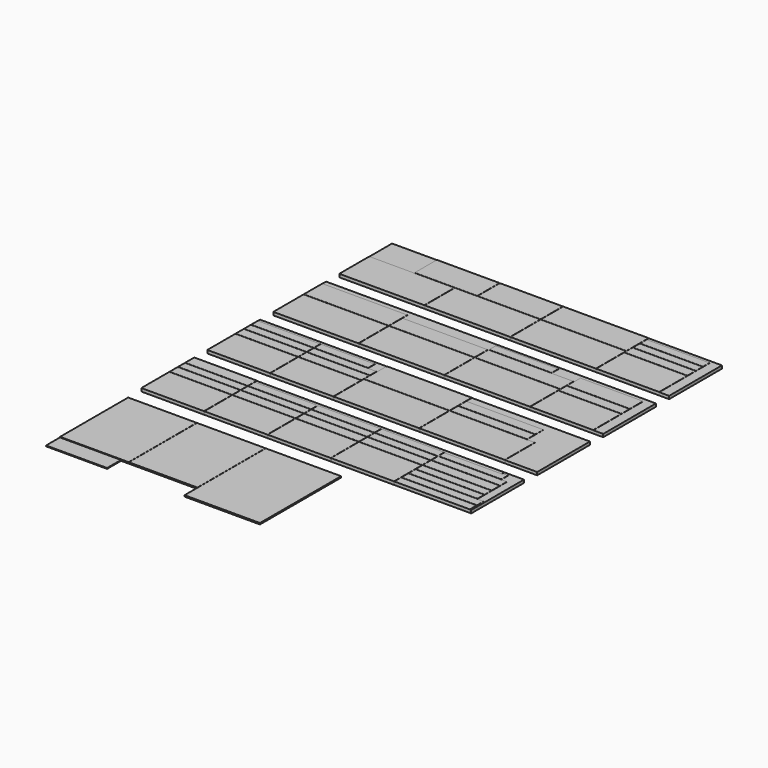
from build123d import *

# Parameters (mm, degrees)
BOX_W        = 2000
BOX_H        = 400
BOX_DEPTH    = 18
BOX001_W     = 380
BOX001_H     = 69
BOX001_DEPTH = 18
BOX002_W     = 380
BOX002_H     = 50
BOX002_DEPTH = 18
BOX003_W     = 380
BOX003_H     = 60
BOX003_DEPTH = 18
BOX004_W     = 380
BOX004_H     = 50
BOX004_DEPTH = 18
BOX005_W     = 380
BOX005_H     = 210
BOX005_DEPTH = 18
BOX007_W     = 380
BOX007_H     = 50
BOX007_DEPTH = 18
BOX008_W     = 380
BOX008_H     = 210
BOX008_DEPTH = 18
BOX006_W     = 380
BOX006_H     = 60
BOX006_DEPTH = 18
BOX009_W     = 380
BOX009_H     = 100
BOX009_DEPTH = 18
BOX010_W     = 380
BOX010_H     = 50
BOX010_DEPTH = 18
BOX014_W     = 380
BOX014_H     = 50
BOX014_DEPTH = 18
BOX015_W     = 380
BOX015_H     = 210
BOX015_DEPTH = 18
BOX016_W     = 380
BOX016_H     = 60
BOX016_DEPTH = 18
BOX012_W     = 380
BOX012_H     = 50
BOX012_DEPTH = 18
BOX013_W     = 380
BOX013_H     = 210
BOX013_DEPTH = 18
BOX017_W     = 380
BOX017_H     = 50
BOX017_DEPTH = 18
BOX011_W     = 380
BOX011_H     = 60
BOX011_DEPTH = 18
BOX021_W     = 466
BOX021_H     = 60
BOX021_DEPTH = 18
BOX022_W     = 2000
BOX022_H     = 400
BOX022_DEPTH = 18
BOX023_W     = 466
BOX023_H     = 60
BOX023_DEPTH = 18
BOX024_W     = 456
BOX024_H     = 50
BOX024_DEPTH = 18
BOX025_W     = 456
BOX025_H     = 50
BOX025_DEPTH = 18
BOX026_W     = 416
BOX026_H     = 50
BOX026_DEPTH = 18
BOX027_W     = 416
BOX027_H     = 50
BOX027_DEPTH = 18
BOX028_W     = 416
BOX028_H     = 50
BOX028_DEPTH = 18
BOX029_W     = 416
BOX029_H     = 60
BOX029_DEPTH = 18
BOX030_W     = 346
BOX030_H     = 18
BOX030_DEPTH = 18
BOX035_W     = 380
BOX035_H     = 210
BOX035_DEPTH = 18
BOX032_W     = 380
BOX032_H     = 210
BOX032_DEPTH = 18
BOX031_W     = 380
BOX031_H     = 50
BOX031_DEPTH = 18
BOX034_W     = 380
BOX034_H     = 50
BOX034_DEPTH = 18
BOX033_W     = 380
BOX033_H     = 60
BOX033_DEPTH = 18
BOX036_W     = 380
BOX036_H     = 60
BOX036_DEPTH = 18
BOX037_W     = 380
BOX037_H     = 210
BOX037_DEPTH = 18
BOX038_W     = 380
BOX038_H     = 210
BOX038_DEPTH = 18
BOX039_W     = 380
BOX039_H     = 50
BOX039_DEPTH = 18
BOX040_W     = 380
BOX040_H     = 50
BOX040_DEPTH = 18
BOX041_W     = 380
BOX041_H     = 60
BOX041_DEPTH = 18
BOX042_W     = 380
BOX042_H     = 60
BOX042_DEPTH = 18
BOX043_W     = 2000
BOX043_H     = 400
BOX043_DEPTH = 18
BOX044_W     = 516
BOX044_H     = 227
BOX044_DEPTH = 18
BOX045_W     = 516
BOX045_H     = 227
BOX045_DEPTH = 18
BOX046_W     = 516
BOX046_H     = 227
BOX046_DEPTH = 18
BOX047_W     = 516
BOX047_H     = 227
BOX047_DEPTH = 18
BOX048_W     = 2000
BOX048_H     = 400
BOX048_DEPTH = 18
BOX049_W     = 516
BOX049_H     = 227
BOX049_DEPTH = 18
BOX050_W     = 516
BOX050_H     = 227
BOX050_DEPTH = 18
BOX051_W     = 380
BOX051_H     = 50
BOX051_DEPTH = 18
BOX052_W     = 516
BOX052_H     = 140
BOX052_DEPTH = 18
BOX053_W     = 516
BOX053_H     = 100
BOX053_DEPTH = 18
BOX054_W     = 516
BOX054_H     = 100
BOX054_DEPTH = 18
BOX055_W     = 326
BOX055_H     = 50
BOX055_DEPTH = 18
BOX056_W     = 516
BOX056_H     = 227
BOX056_DEPTH = 18
BOX060_W     = 516
BOX060_H     = 169
BOX060_DEPTH = 18
BOX061_W     = 516
BOX061_H     = 169
BOX061_DEPTH = 18
BOX062_W     = 380
BOX062_H     = 169
BOX062_DEPTH = 18
BOX063_W     = 380
BOX063_H     = 169
BOX063_DEPTH = 18
BOX064_W     = 416
BOX064_H     = 516
BOX064_DEPTH = 8
BOX065_W     = 457
BOX065_H     = 615
BOX065_DEPTH = 8
BOX066_W     = 416
BOX066_H     = 516
BOX066_DEPTH = 8
BOX067_W     = 370
BOX067_H     = 105
BOX067_DEPTH = 5
BOX068_W     = 516
BOX068_H     = 227
BOX068_DEPTH = 18
BOX069_W     = 380
BOX069_H     = 50
BOX069_DEPTH = 18
BOX070_W     = 380
BOX070_H     = 50
BOX070_DEPTH = 18


with BuildPart() as brett:
    # Box → Box (new body)
    with BuildSketch(Plane.XY.offset(-1)):
        with Locations((1000, 200)):
            Rectangle(BOX_W, BOX_H)
    extrude(amount=BOX_DEPTH)


with BuildPart() as obj1:
    # Box001 → Box001 (new body)
    with BuildSketch(Plane(origin=(0, 332, 0), x_dir=(1, 0, 0), z_dir=(0, 0, 1))):
        with Locations((190, 34.5)):
            Rectangle(BOX001_W, BOX001_H)
    extrude(amount=BOX001_DEPTH)


with BuildPart() as obj2:
    # Box002 → Box002 (new body)
    with BuildSketch(Plane(origin=(384, 332, 0), x_dir=(1, 0, 0), z_dir=(0, 0, 1))):
        with Locations((190, 25)):
            Rectangle(BOX002_W, BOX002_H)
    extrude(amount=BOX002_DEPTH)


with BuildPart() as obj3:
    # Box003 → Box003 (new body)
    with BuildSketch(Plane(origin=(1152, 214, 0), x_dir=(1, 0, 0), z_dir=(0, 0, 1))):
        with Locations((190, 30)):
            Rectangle(BOX003_W, BOX003_H)
    extrude(amount=BOX003_DEPTH)


with BuildPart() as obj4:
    # Box004 → Box004 (new body)
    with BuildSketch(Plane(origin=(1152, 278, 0), x_dir=(1, 0, 0), z_dir=(0, 0, 1))):
        with Locations((190, 25)):
            Rectangle(BOX004_W, BOX004_H)
    extrude(amount=BOX004_DEPTH)


with BuildPart() as obj5:
    # Box005 → Box005 (new body)
    with BuildSketch(Plane(origin=(1152, 0, 0), x_dir=(1, 0, 0), z_dir=(0, 0, 1))):
        with Locations((190, 105)):
            Rectangle(BOX005_W, BOX005_H)
    extrude(amount=BOX005_DEPTH)


with BuildPart() as obj6:
    # Box007 → Box007 (new body)
    with BuildSketch(Plane(origin=(768, 278, 0), x_dir=(1, 0, 0), z_dir=(0, 0, 1))):
        with Locations((190, 25)):
            Rectangle(BOX007_W, BOX007_H)
    extrude(amount=BOX007_DEPTH)


with BuildPart() as obj7:
    # Box008 → Box008 (new body)
    with BuildSketch(Plane(origin=(768, 0, 0), x_dir=(1, 0, 0), z_dir=(0, 0, 1))):
        with Locations((190, 105)):
            Rectangle(BOX008_W, BOX008_H)
    extrude(amount=BOX008_DEPTH)


with BuildPart() as obj8:
    # Box006 → Box006 (new body)
    with BuildSketch(Plane(origin=(768, 214, 0), x_dir=(1, 0, 0), z_dir=(0, 0, 1))):
        with Locations((190, 30)):
            Rectangle(BOX006_W, BOX006_H)
    extrude(amount=BOX006_DEPTH)


with BuildPart() as boden_back_with_hole:
    # Box009 → Box009 (new body)
    with BuildSketch(Plane(origin=(1560, 1278, 0), x_dir=(1, 0, 0), z_dir=(0, 0, 1))):
        with Locations((190, 50)):
            Rectangle(BOX009_W, BOX009_H)
    extrude(amount=BOX009_DEPTH)


with BuildPart() as obj9:
    # Box010 → Box010 (new body)
    with BuildSketch(Plane(origin=(1152, 332, 0), x_dir=(1, 0, 0), z_dir=(0, 0, 1))):
        with Locations((190, 25)):
            Rectangle(BOX010_W, BOX010_H)
    extrude(amount=BOX010_DEPTH)


with BuildPart() as obj10:
    # Box014 → Box014 (new body)
    with BuildSketch(Plane(origin=(0, 278, 0), x_dir=(1, 0, 0), z_dir=(0, 0, 1))):
        with Locations((190, 25)):
            Rectangle(BOX014_W, BOX014_H)
    extrude(amount=BOX014_DEPTH)


with BuildPart() as obj11:
    # Box015 → Box015 (new body)
    with BuildSketch(Plane(origin=(384, 0, 0), x_dir=(1, 0, 0), z_dir=(0, 0, 1))):
        with Locations((190, 105)):
            Rectangle(BOX015_W, BOX015_H)
    extrude(amount=BOX015_DEPTH)


with BuildPart() as obj12:
    # Box016 → Box016 (new body)
    with BuildSketch(Plane(origin=(0, 214, 0), x_dir=(1, 0, 0), z_dir=(0, 0, 1))):
        with Locations((190, 30)):
            Rectangle(BOX016_W, BOX016_H)
    extrude(amount=BOX016_DEPTH)


with BuildPart() as box012:
    # Box012 → Box012 (new body)
    with BuildSketch(Plane(origin=(384, 278, 0), x_dir=(1, 0, 0), z_dir=(0, 0, 1))):
        with Locations((190, 25)):
            Rectangle(BOX012_W, BOX012_H)
    extrude(amount=BOX012_DEPTH)


with BuildPart() as obj13:
    # Box013 → Box013 (new body)
    with BuildSketch(Plane.XY):
        with Locations((190, 105)):
            Rectangle(BOX013_W, BOX013_H)
    extrude(amount=BOX013_DEPTH)


with BuildPart() as obj14:
    # Box017 → Box017 (new body)
    with BuildSketch(Plane(origin=(1536, 334, 0), x_dir=(1, 0, 0), z_dir=(0, 0, 1))):
        with Locations((190, 25)):
            Rectangle(BOX017_W, BOX017_H)
    extrude(amount=BOX017_DEPTH)


with BuildPart() as obj15:
    # Box011 → Box011 (new body)
    with BuildSketch(Plane(origin=(384, 214, 0), x_dir=(1, 0, 0), z_dir=(0, 0, 1))):
        with Locations((190, 30)):
            Rectangle(BOX011_W, BOX011_H)
    extrude(amount=BOX011_DEPTH)


with BuildPart() as boden_seite_rechts_unten:
    # Box021 → Box021 (new body)
    with BuildSketch(Plane(origin=(1288, 731, 0), x_dir=(1, 0, 0), z_dir=(0, 0, 1))):
        with Locations((233, 30)):
            Rectangle(BOX021_W, BOX021_H)
    extrude(amount=BOX021_DEPTH)


with BuildPart() as brett2:
    # Box022 → Box022 (new body)
    with BuildSketch(Plane(origin=(0, 500, -1), x_dir=(1, 0, 0), z_dir=(0, 0, 1))):
        with Locations((1000, 200)):
            Rectangle(BOX022_W, BOX022_H)
    extrude(amount=BOX022_DEPTH)


with BuildPart() as boden_seite_links_unten:
    # Box023 → Box023 (new body)
    with BuildSketch(Plane(origin=(1288, 795, 0), x_dir=(1, 0, 0), z_dir=(0, 0, 1))):
        with Locations((233, 30)):
            Rectangle(BOX023_W, BOX023_H)
    extrude(amount=BOX023_DEPTH)


with BuildPart() as boden_seite_rechts_oben:
    # Box024 → Box024 (new body)
    with BuildSketch(Plane(origin=(1536, 0, 0), x_dir=(1, 0, 0), z_dir=(0, 0, 1))):
        with Locations((228, 25)):
            Rectangle(BOX024_W, BOX024_H)
    extrude(amount=BOX024_DEPTH)


with BuildPart() as boden_seite_links_oben:
    # Box025 → Box025 (new body)
    with BuildSketch(Plane(origin=(1536, 54, 0), x_dir=(1, 0, 0), z_dir=(0, 0, 1))):
        with Locations((228, 25)):
            Rectangle(BOX025_W, BOX025_H)
    extrude(amount=BOX025_DEPTH)


with BuildPart() as obj16:
    # Box026 → Box026 (new body)
    with BuildSketch(Plane(origin=(1536, 108, 0), x_dir=(1, 0, 0), z_dir=(0, 0, 1))):
        with Locations((208, 25)):
            Rectangle(BOX026_W, BOX026_H)
    extrude(amount=BOX026_DEPTH)


with BuildPart() as obj17:
    # Box027 → Box027 (new body)
    with BuildSketch(Plane(origin=(1536, 280, 0), x_dir=(1, 0, 0), z_dir=(0, 0, 1))):
        with Locations((208, 25)):
            Rectangle(BOX027_W, BOX027_H)
    extrude(amount=BOX027_DEPTH)


with BuildPart() as obj18:
    # Box028 → Box028 (new body)
    with BuildSketch(Plane(origin=(1536, 162, 0), x_dir=(1, 0, 0), z_dir=(0, 0, 1))):
        with Locations((208, 25)):
            Rectangle(BOX028_W, BOX028_H)
    extrude(amount=BOX028_DEPTH)


with BuildPart() as obj19:
    # Box029 → Box029 (new body)
    with BuildSketch(Plane(origin=(1536, 216, 0), x_dir=(1, 0, 0), z_dir=(0, 0, 1))):
        with Locations((208, 30)):
            Rectangle(BOX029_W, BOX029_H)
    extrude(amount=BOX029_DEPTH)


with BuildPart() as obj20:
    # Box030 → Box030 (new body)
    with BuildSketch(Plane(origin=(1536, 378, 0), x_dir=(1, 0, 0), z_dir=(0, 0, 1))):
        with Locations((173, 9)):
            Rectangle(BOX030_W, BOX030_H)
    extrude(amount=BOX030_DEPTH)


with BuildPart() as obj21:
    # Box035 → Box035 (new body)
    with BuildSketch(Plane(origin=(0, 500, 0), x_dir=(1, 0, 0), z_dir=(0, 0, 1))):
        with Locations((190, 105)):
            Rectangle(BOX035_W, BOX035_H)
    extrude(amount=BOX035_DEPTH)


with BuildPart() as obj22:
    # Box032 → Box032 (new body)
    with BuildSketch(Plane(origin=(384, 500, 0), x_dir=(1, 0, 0), z_dir=(0, 0, 1))):
        with Locations((190, 105)):
            Rectangle(BOX032_W, BOX032_H)
    extrude(amount=BOX032_DEPTH)


with BuildPart() as obj23:
    # Box031 → Box031 (new body)
    with BuildSketch(Plane(origin=(0, 778, 0), x_dir=(1, 0, 0), z_dir=(0, 0, 1))):
        with Locations((190, 25)):
            Rectangle(BOX031_W, BOX031_H)
    extrude(amount=BOX031_DEPTH)


with BuildPart() as box034:
    # Box034 → Box034 (new body)
    with BuildSketch(Plane(origin=(384, 778, 0), x_dir=(1, 0, 0), z_dir=(0, 0, 1))):
        with Locations((190, 25)):
            Rectangle(BOX034_W, BOX034_H)
    extrude(amount=BOX034_DEPTH)


with BuildPart() as obj24:
    # Box033 → Box033 (new body)
    with BuildSketch(Plane(origin=(0, 714, 0), x_dir=(1, 0, 0), z_dir=(0, 0, 1))):
        with Locations((190, 30)):
            Rectangle(BOX033_W, BOX033_H)
    extrude(amount=BOX033_DEPTH)


with BuildPart() as obj25:
    # Box036 → Box036 (new body)
    with BuildSketch(Plane(origin=(384, 714, 0), x_dir=(1, 0, 0), z_dir=(0, 0, 1))):
        with Locations((190, 30)):
            Rectangle(BOX036_W, BOX036_H)
    extrude(amount=BOX036_DEPTH)


with BuildPart() as obj26:
    # Box037 → Box037 (new body)
    with BuildSketch(Plane(origin=(1560, 1500, 0), x_dir=(1, 0, 0), z_dir=(0, 0, 1))):
        with Locations((190, 105)):
            Rectangle(BOX037_W, BOX037_H)
    extrude(amount=BOX037_DEPTH)


with BuildPart() as obj27:
    # Box038 → Box038 (new body)
    with BuildSketch(Plane(origin=(1560, 1000, 0), x_dir=(1, 0, 0), z_dir=(0, 0, 1))):
        with Locations((190, 105)):
            Rectangle(BOX038_W, BOX038_H)
    extrude(amount=BOX038_DEPTH)


with BuildPart() as obj28:
    # Box039 → Box039 (new body)
    with BuildSketch(Plane(origin=(1560, 1778, 0), x_dir=(1, 0, 0), z_dir=(0, 0, 1))):
        with Locations((190, 25)):
            Rectangle(BOX039_W, BOX039_H)
    extrude(amount=BOX039_DEPTH)


with BuildPart() as box040:
    # Box040 → Box040 (new body)
    with BuildSketch(Plane(origin=(768, 332, 0), x_dir=(1, 0, 0), z_dir=(0, 0, 1))):
        with Locations((190, 25)):
            Rectangle(BOX040_W, BOX040_H)
    extrude(amount=BOX040_DEPTH)


with BuildPart() as obj29:
    # Box041 → Box041 (new body)
    with BuildSketch(Plane(origin=(1560, 1714, 0), x_dir=(1, 0, 0), z_dir=(0, 0, 1))):
        with Locations((190, 30)):
            Rectangle(BOX041_W, BOX041_H)
    extrude(amount=BOX041_DEPTH)


with BuildPart() as obj30:
    # Box042 → Box042 (new body)
    with BuildSketch(Plane(origin=(1560, 1214, 0), x_dir=(1, 0, 0), z_dir=(0, 0, 1))):
        with Locations((190, 30)):
            Rectangle(BOX042_W, BOX042_H)
    extrude(amount=BOX042_DEPTH)


with BuildPart() as box043:
    # Box043 → Box043 (new body)
    with BuildSketch(Plane(origin=(0, 1000, -1), x_dir=(1, 0, 0), z_dir=(0, 0, 1))):
        with Locations((1000, 200)):
            Rectangle(BOX043_W, BOX043_H)
    extrude(amount=BOX043_DEPTH)


with BuildPart() as obj31:
    # Box044 → Box044 (new body)
    with BuildSketch(Plane(origin=(0, 1000, 0), x_dir=(1, 0, 0), z_dir=(0, 0, 1))):
        with Locations((258, 113.5)):
            Rectangle(BOX044_W, BOX044_H)
    extrude(amount=BOX044_DEPTH)


with BuildPart() as obj32:
    # Box045 → Box045 (new body)
    with BuildSketch(Plane(origin=(520, 1000, 0), x_dir=(1, 0, 0), z_dir=(0, 0, 1))):
        with Locations((258, 113.5)):
            Rectangle(BOX045_W, BOX045_H)
    extrude(amount=BOX045_DEPTH)


with BuildPart() as obj33:
    # Box046 → Box046 (new body)
    with BuildSketch(Plane(origin=(0, 1500, 0), x_dir=(1, 0, 0), z_dir=(0, 0, 1))):
        with Locations((258, 113.5)):
            Rectangle(BOX046_W, BOX046_H)
    extrude(amount=BOX046_DEPTH)


with BuildPart() as obj34:
    # Box047 → Box047 (new body)
    with BuildSketch(Plane(origin=(1040, 1000, 0), x_dir=(1, 0, 0), z_dir=(0, 0, 1))):
        with Locations((258, 113.5)):
            Rectangle(BOX047_W, BOX047_H)
    extrude(amount=BOX047_DEPTH)


with BuildPart() as box048:
    # Box048 → Box048 (new body)
    with BuildSketch(Plane(origin=(0, 1500, -1), x_dir=(1, 0, 0), z_dir=(0, 0, 1))):
        with Locations((1000, 200)):
            Rectangle(BOX048_W, BOX048_H)
    extrude(amount=BOX048_DEPTH)


with BuildPart() as obj35:
    # Box049 → Box049 (new body)
    with BuildSketch(Plane(origin=(1040, 1500, 0), x_dir=(1, 0, 0), z_dir=(0, 0, 1))):
        with Locations((258, 113.5)):
            Rectangle(BOX049_W, BOX049_H)
    extrude(amount=BOX049_DEPTH)


with BuildPart() as obj36:
    # Box050 → Box050 (new body)
    with BuildSketch(Plane(origin=(520, 1500, 0), x_dir=(1, 0, 0), z_dir=(0, 0, 1))):
        with Locations((258, 113.5)):
            Rectangle(BOX050_W, BOX050_H)
    extrude(amount=BOX050_DEPTH)


with BuildPart() as obj37:
    # Box051 → Box051 (new body)
    with BuildSketch(Plane(origin=(0, 832, 0), x_dir=(1, 0, 0), z_dir=(0, 0, 1))):
        with Locations((190, 25)):
            Rectangle(BOX051_W, BOX051_H)
    extrude(amount=BOX051_DEPTH)


with BuildPart() as obj38:
    # Box052 → Box052 (new body)
    with BuildSketch(Plane(origin=(0, 1231, 0), x_dir=(1, 0, 0), z_dir=(0, 0, 1))):
        with Locations((258, 70)):
            Rectangle(BOX052_W, BOX052_H)
    extrude(amount=BOX052_DEPTH)


with BuildPart() as boden_seite_links:
    # Box053 → Box053 (new body)
    with BuildSketch(Plane(origin=(520, 1231, 0), x_dir=(1, 0, 0), z_dir=(0, 0, 1))):
        with Locations((258, 50)):
            Rectangle(BOX053_W, BOX053_H)
    extrude(amount=BOX053_DEPTH)


with BuildPart() as boden_seite_rechts:
    # Box054 → Box054 (new body)
    with BuildSketch(Plane(origin=(1040, 1231, 0), x_dir=(1, 0, 0), z_dir=(0, 0, 1))):
        with Locations((258, 50)):
            Rectangle(BOX054_W, BOX054_H)
    extrude(amount=BOX054_DEPTH)


with BuildPart() as obj39:
    # Box055 → Box055 (new body)
    with BuildSketch(Plane(origin=(384, 832, 0), x_dir=(1, 0, 0), z_dir=(0, 0, 1))):
        with Locations((163, 25)):
            Rectangle(BOX055_W, BOX055_H)
    extrude(amount=BOX055_DEPTH)


with BuildPart() as obj40:
    # Box056 → Box056 (new body)
    with BuildSketch(Plane(origin=(768, 500, 0), x_dir=(1, 0, 0), z_dir=(0, 0, 1))):
        with Locations((258, 113.5)):
            Rectangle(BOX056_W, BOX056_H)
    extrude(amount=BOX056_DEPTH)


with BuildPart() as obj41:
    # Box060 → Box060 (new body)
    with BuildSketch(Plane(origin=(768, 731, 0), x_dir=(1, 0, 0), z_dir=(0, 0, 1))):
        with Locations((258, 84.5)):
            Rectangle(BOX060_W, BOX060_H)
    extrude(amount=BOX060_DEPTH)


with BuildPart() as obj42:
    # Box061 → Box061 (new body)
    with BuildSketch(Plane(origin=(1040, 1731, 0), x_dir=(1, 0, 0), z_dir=(0, 0, 1))):
        with Locations((258, 84.5)):
            Rectangle(BOX061_W, BOX061_H)
    extrude(amount=BOX061_DEPTH)


with BuildPart() as obj43:
    # Box062 → Box062 (new body)
    with BuildSketch(Plane(origin=(656, 1731, 0), x_dir=(1, 0, 0), z_dir=(0, 0, 1))):
        with Locations((190, 84.5)):
            Rectangle(BOX062_W, BOX062_H)
    extrude(amount=BOX062_DEPTH)


with BuildPart() as obj44:
    # Box063 → Box063 (new body)
    with BuildSketch(Plane(origin=(272, 1731, 0), x_dir=(1, 0, 0), z_dir=(0, 0, 1))):
        with Locations((190, 84.5)):
            Rectangle(BOX063_W, BOX063_H)
    extrude(amount=BOX063_DEPTH)


with BuildPart() as obj45:
    # Box064 → Box064 (new body)
    with BuildSketch(Plane(origin=(0, -616, 0), x_dir=(1, 0, 0), z_dir=(0, 0, 1))):
        with Locations((208, 258)):
            Rectangle(BOX064_W, BOX064_H)
    extrude(amount=BOX064_DEPTH)


with BuildPart() as obj46:
    # Box065 → Box065 (new body)
    with BuildSketch(Plane(origin=(834, -715, 0), x_dir=(1, 0, 0), z_dir=(0, 0, 1))):
        with Locations((228.5, 307.5)):
            Rectangle(BOX065_W, BOX065_H)
    extrude(amount=BOX065_DEPTH)


with BuildPart() as obj47:
    # Box066 → Box066 (new body)
    with BuildSketch(Plane(origin=(417, -616, 0), x_dir=(1, 0, 0), z_dir=(0, 0, 1))):
        with Locations((208, 258)):
            Rectangle(BOX066_W, BOX066_H)
    extrude(amount=BOX066_DEPTH)


with BuildPart() as obj48:
    # Box067 → Box067 (new body)
    with BuildSketch(Plane(origin=(0, -722, 0), x_dir=(1, 0, 0), z_dir=(0, 0, 1))):
        with Locations((185, 52.5)):
            Rectangle(BOX067_W, BOX067_H)
    extrude(amount=BOX067_DEPTH)


with BuildPart() as obj49:
    # Box068 → Box068 (new body)
    with BuildSketch(Plane(origin=(1288, 500, 0), x_dir=(1, 0, 0), z_dir=(0, 0, 1))):
        with Locations((258, 113.5)):
            Rectangle(BOX068_W, BOX068_H)
    extrude(amount=BOX068_DEPTH)


with BuildPart() as obj50:
    # Box069 → Box069 (new body)
    with BuildSketch(Plane(origin=(1040, 1335, 0), x_dir=(1, 0, 0), z_dir=(0, 0, 1))):
        with Locations((190, 25)):
            Rectangle(BOX069_W, BOX069_H)
    extrude(amount=BOX069_DEPTH)


with BuildPart() as obj51:
    # Box070 → Box070 (new body)
    with BuildSketch(Plane(origin=(1560, 1832, 0), x_dir=(1, 0, 0), z_dir=(0, 0, 1))):
        with Locations((190, 25)):
            Rectangle(BOX070_W, BOX070_H)
    extrude(amount=BOX070_DEPTH)


solid = Compound([brett.part, obj1.part, obj2.part, obj3.part, obj4.part, obj5.part, obj6.part, obj7.part, obj8.part, boden_back_with_hole.part, obj9.part, obj10.part, obj11.part, obj12.part, box012.part, obj13.part, obj14.part, obj15.part, boden_seite_rechts_unten.part, brett2.part, boden_seite_links_unten.part, boden_seite_rechts_oben.part, boden_seite_links_oben.part, obj16.part, obj17.part, obj18.part, obj19.part, obj20.part, obj21.part, obj22.part, obj23.part, box034.part, obj24.part, obj25.part, obj26.part, obj27.part, obj28.part, box040.part, obj29.part, obj30.part, box043.part, obj31.part, obj32.part, obj33.part, obj34.part, box048.part, obj35.part, obj36.part, obj37.part, obj38.part, boden_seite_links.part, boden_seite_rechts.part, obj39.part, obj40.part, obj41.part, obj42.part, obj43.part, obj44.part, obj45.part, obj46.part, obj47.part, obj48.part, obj49.part, obj50.part, obj51.part])
